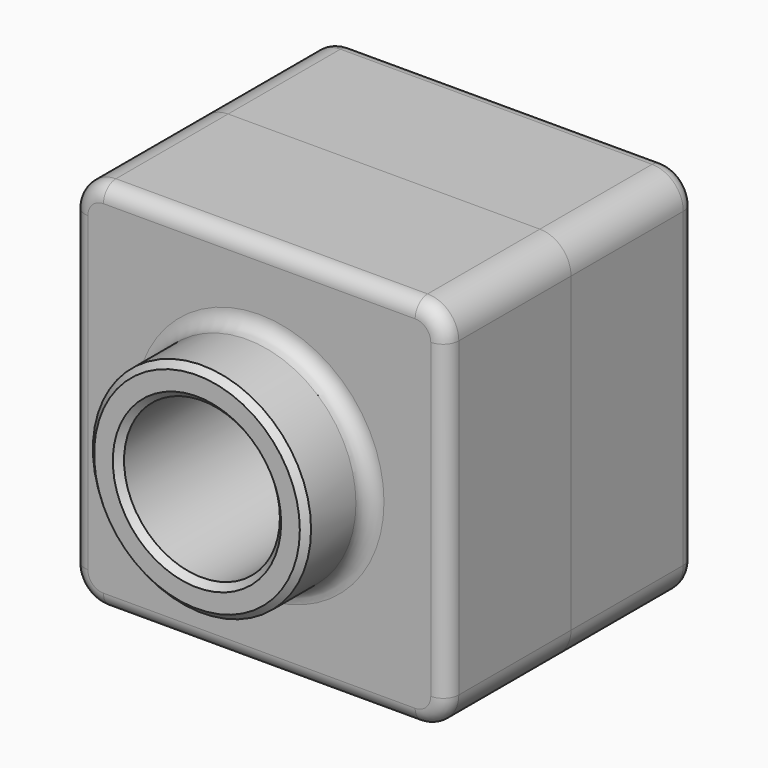
from build123d import *

# Parameters (mm, degrees)
F0_W      = 120
F0_H      = 120
F1_DEPTH  = 50
F2_R      = 35
F3_DEPTH  = 25
F4_R      = 25
F5_DEPTH  = 75.001
F6_R      = 10
F7_R      = 5
F8_SIZE   = 2
F9_T      = -2
F11_DEPTH = 50
F12_R     = 5
F13_T     = -5
F15_DEPTH = 15


with BuildPart() as f1:
    # F0 (on Front) → F1 (new body)
    with BuildSketch(Plane.XZ):
        Rectangle(F0_W, F0_H)
    extrude(amount=F1_DEPTH)

    # F2 (on face) → F3 (join)
    with BuildSketch(Plane.XZ.offset(50)):
        Circle(F2_R)
    extrude(amount=F3_DEPTH)

    # F4 (on face) → F5 (cut, through all)
    with BuildSketch(Plane.XZ.offset(75)):
        Circle(F4_R)
    extrude(amount=-F5_DEPTH, mode=Mode.SUBTRACT)

    # F6
    f6_edges = [f1.edges().sort_by_distance(p)[0] for p in [
        (60, -25, 60),
        (-60, -25, 60),
        (60, -25, -60),
        (-60, -25, -60),
    ]]
    fillet(f6_edges, radius=F6_R)

    # F7
    f7_edges = [f1.edges().sort_by_distance(p)[0] for p in [
        (-35, -50, 0),
        (0, -50, 60),
    ]]
    fillet(f7_edges, radius=F7_R)

    # F8
    f8_edges = [f1.edges().sort_by_distance(p)[0] for p in [
        (-35, -75, 0),
        (-25, -75, 0),
    ]]
    chamfer(f8_edges, length=F8_SIZE)

    # F9
    f9_openings = [f1.faces().sort_by_distance(p)[0] for p in [
        (58.302944, 0, 0),
    ]]
    offset(amount=F9_T, openings=f9_openings)


with BuildPart() as f11:
    # F10 (on face) → F11 (new body)
    with BuildSketch(Plane(origin=(0, 0, 0), x_dir=(-1, 0, 0), z_dir=(0, 1, 0))):
        with BuildLine():
            Line((50, 60), (-50, 60))
            ThreePointArc((-50, 60), (-57.0710678119, 57.0710678119), (-60, 50))
            Line((-60, 50), (-60, -50))
            ThreePointArc((-60, -50), (-57.0710678119, -57.0710678119), (-50, -60))
            Line((-50, -60), (50, -60))
            ThreePointArc((50, -60), (57.0710678119, -57.0710678119), (60, -50))
            Line((60, -50), (60, 50))
            ThreePointArc((60, 50), (57.0710678119, 57.0710678119), (50, 60))
        make_face()
    extrude(amount=F11_DEPTH)

    # F12
    f12_edges = [f11.edges().sort_by_distance(p)[0] for p in [
        (60, 50, 0),
    ]]
    fillet(f12_edges, radius=F12_R)

    # F13
    f13_openings = [f11.faces().sort_by_distance(p)[0] for p in [
        (0, 0, 0),
    ]]
    offset(amount=F13_T, openings=f13_openings, kind=Kind.INTERSECTION)

    # F14 (on face) → F15 (join)
    with BuildSketch(Plane.XZ):
        with BuildLine():
            ThreePointArc((-50, 57), (-54.9497474683, 54.9497474683), (-57, 50))
            Line((-57, 50), (-57, -50))
            ThreePointArc((-57, -50), (-54.9497474683, -54.9497474683), (-50, -57))
            Line((-50, -57), (50, -57))
            ThreePointArc((50, -57), (54.9497474683, -54.9497474683), (57, -50))
            Line((57, -50), (57, 50))
            ThreePointArc((57, 50), (54.9497474683, 54.9497474683), (50, 57))
            Line((50, 57), (-50, 57))
        make_face()
        with BuildLine():
            ThreePointArc((55, -50), (53.5355339059, -53.5355339059), (50, -55))
            Line((50, -55), (-50, -55))
            ThreePointArc((-50, -55), (-53.5355339059, -53.5355339059), (-55, -50))
            Line((-55, -50), (-55, 50))
            ThreePointArc((-55, 50), (-53.5355339059, 53.5355339059), (-50, 55))
            Line((-50, 55), (50, 55))
            ThreePointArc((50, 55), (53.5355339059, 53.5355339059), (55, 50))
            Line((55, 50), (55, -50))
        make_face(mode=Mode.SUBTRACT)
    extrude(amount=F15_DEPTH)


solid = Compound([f1.part, f11.part])
